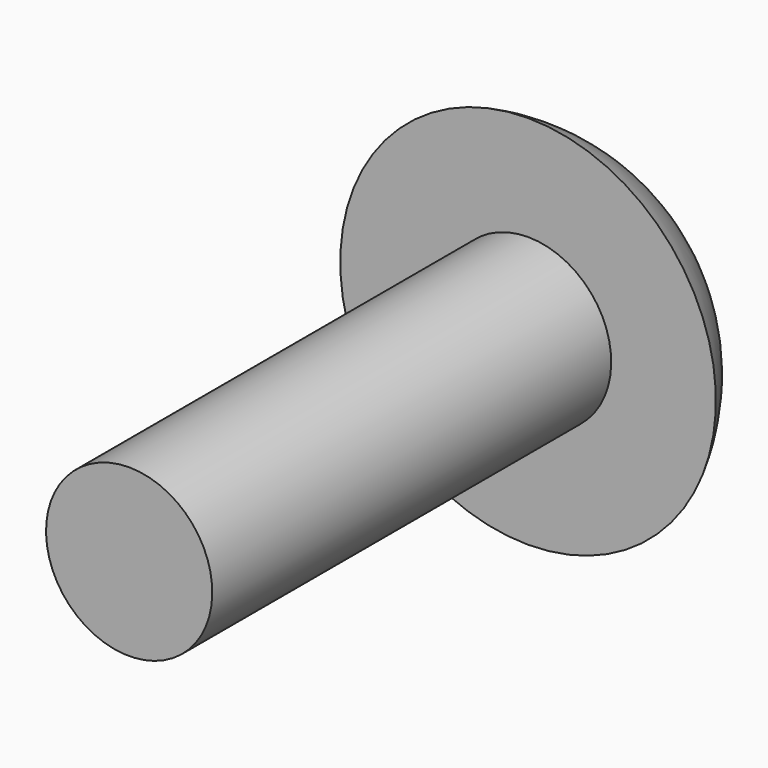
from build123d import *


with BuildPart() as f1:
    # F0 (on Right) → F1 (revolve)
    with BuildSketch(Plane.YZ):
        with BuildLine():
            Line((0, 2.5), (0, 0))
            Line((0, 0), (18.5, 0))
            ThreePointArc((18.5, 0), (17.554108, 3.32312), (15, 5.65))
            Line((15, 5.65), (15, 2.5))
            Line((15, 2.5), (0, 2.5))
        make_face()
    revolve(axis=Axis((0, 9.25, 0), (0, 1, 0)))


solid = f1.part
